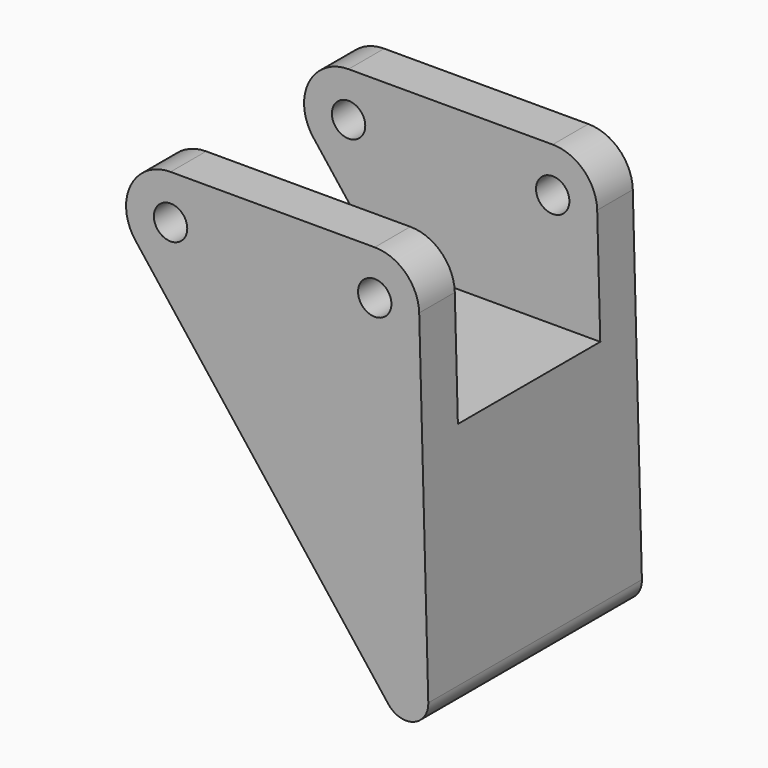
from build123d import *

# Parameters (mm, degrees)
F0_R     = 1.5
F1_DEPTH = 12
F3_DEPTH = 8
F5_DEPTH = 16


with BuildPart() as f1:
    # F0 (on Front) → F1 (new body, symmetric)
    with BuildSketch(Plane.XZ):
        with BuildLine():
            ThreePointArc((-21.167, 34.54), (-24.7592769863, 32.2994163957), (-24.3271555139, 28.0877730268))
            Line((-24.3271555139, 28.0877730268), (-1.5800777569, -1.2261134866))
            ThreePointArc((-1.5800777569, -1.2261134866), (0.6732360047, -1.8832825816), (1.9992859745, 0.0534377403))
            Line((1.9992859745, 0.0534377403), (1.181571949, 30.6468754807))
            ThreePointArc((1.181571949, 30.6468754807), (-0.0266148942, 33.4059642289), (-2.817, 34.54))
            Line((-2.817, 34.54), (-21.167, 34.54))
        make_face()
        with Locations((-21.167, 30.54)):
            Circle(F0_R, mode=Mode.SUBTRACT)
        with Locations((-2.817, 30.54)):
            Circle(F0_R, mode=Mode.SUBTRACT)
    extrude(amount=F1_DEPTH, both=True)

    # F2 (on Front) → F3 (cut, symmetric)
    with BuildSketch(Plane.XZ):
        with BuildLine():
            ThreePointArc((-1.5800777569, -1.2261134866), (0.6732360047, -1.8832825816), (1.9992859745, 0.0534377403))
            Line((1.9992859745, 0.0534377403), (1.181571949, 30.6468754807))
            ThreePointArc((1.181571949, 30.6468754807), (-0.0266148942, 33.4059642289), (-2.817, 34.54))
            Line((-2.817, 34.54), (-21.167, 34.54))
            ThreePointArc((-21.167, 34.54), (-24.7592769863, 32.2994163957), (-24.3271555139, 28.0877730268))
            Line((-24.3271555139, 28.0877730268), (-1.5800777569, -1.2261134866))
        make_face()
    extrude(amount=F3_DEPTH, both=True, mode=Mode.SUBTRACT)

    # F4 (on face) → F5 (join)
    with BuildSketch(Plane.XZ.offset(-8)):
        with BuildLine():
            ThreePointArc((-1.5800777569, -1.2261134866), (0.6732360047, -1.8832825816), (1.9992859745, 0.0534377403))
            Line((1.9992859745, 0.0534377403), (1.4575929373, 20.32))
            Line((1.4575929373, 20.32), (-18.2994956552, 20.32))
            Line((-18.2994956552, 20.32), (-1.5800777569, -1.2261134866))
        make_face()
    extrude(amount=F5_DEPTH)


solid = f1.part
